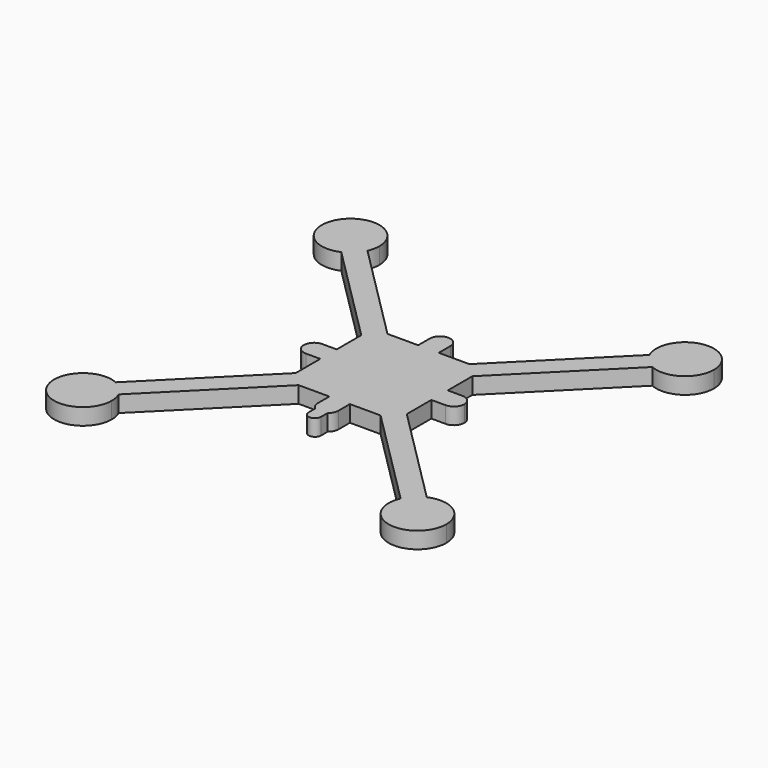
from build123d import *

# Parameters (mm, degrees)
F0_R     = 1.5
F0_R_2   = 1
F1_DEPTH = 4


with BuildPart() as f1:
    # F0 (on Top) → F1 (new body)
    with BuildSketch(Plane.XY):
        with BuildLine():
            ThreePointArc((47.6586399182, -40.6586399182), (44.4672613982, -34.7854463728), (37.803096369, -34.267562463))
            Line((37.803096369, -34.267562463), (42.4264068712, -38.8908729653))
            Line((42.4264068712, -38.8908729653), (40.6586399182, -40.6586399182))
            Line((40.6586399182, -40.6586399182), (38.8908729653, -42.4264068712))
            Line((38.8908729653, -42.4264068712), (34.267562463, -37.803096369))
            ThreePointArc((34.267562463, -37.803096369), (39.1987670105, -47.5047169769), (47.6586399182, -40.6586399182))
        make_face()
        with BuildLine():
            Line((-42.4264068712, 38.8908729653), (-40.6586399182, 40.6586399182))
            Line((-40.6586399182, 40.6586399182), (-38.8908729653, 42.4264068712))
            Line((-38.8908729653, 42.4264068712), (-34.267562463, 37.803096369))
            ThreePointArc((-34.267562463, 37.803096369), (-33.8125628596, 39.1987670105), (-33.6586399182, 40.6586399182))
            ThreePointArc((-33.6586399182, 40.6586399182), (-46.5318334637, 44.4672613982), (-37.803096369, 34.267562463))
            Line((-37.803096369, 34.267562463), (-42.4264068712, 38.8908729653))
        make_face()
        with BuildLine():
            Line((-42.4264068712, -38.8908729653), (-37.803096369, -34.267562463))
            ThreePointArc((-37.803096369, -34.267562463), (-46.5318334637, -44.4672613982), (-33.6586399182, -40.6586399182))
            ThreePointArc((-33.6586399182, -40.6586399182), (-33.8125628596, -39.1987670105), (-34.267562463, -37.803096369))
            Line((-34.267562463, -37.803096369), (-38.8908729653, -42.4264068712))
            Line((-38.8908729653, -42.4264068712), (-40.6586399182, -40.6586399182))
            Line((-40.6586399182, -40.6586399182), (-42.4264068712, -38.8908729653))
        make_face()
        with BuildLine():
            ThreePointArc((47.6586399182, 40.6586399182), (39.1987670105, 47.5047169769), (34.267562463, 37.803096369))
            Line((34.267562463, 37.803096369), (38.8908729653, 42.4264068712))
            Line((38.8908729653, 42.4264068712), (40.6586399182, 40.6586399182))
            Line((40.6586399182, 40.6586399182), (42.4264068712, 38.8908729653))
            Line((42.4264068712, 38.8908729653), (37.803096369, 34.267562463))
            ThreePointArc((37.803096369, 34.267562463), (44.4672613982, 34.7854463728), (47.6586399182, 40.6586399182))
        make_face()
        with BuildLine():
            Line((13.5, -13.5), (9.9644660941, -13.5))
            Line((9.9644660941, -13.5), (34.267562463, -37.803096369))
            ThreePointArc((34.267562463, -37.803096369), (34.8923586209, -36.6900129516), (35.7088924499, -35.7088924499))
            Line((35.7088924499, -35.7088924499), (13.5, -13.5))
        make_face()
        with BuildLine():
            Line((-9.9644660941, -13.5), (-13.5, -13.5))
            Line((-13.5, -13.5), (-35.7088924499, -35.7088924499))
            ThreePointArc((-35.7088924499, -35.7088924499), (-34.8923586209, -36.6900129516), (-34.267562463, -37.803096369))
            Line((-34.267562463, -37.803096369), (-9.9644660941, -13.5))
        make_face()
        with BuildLine():
            Line((37.803096369, -34.267562463), (13.5, -9.9644660941))
            Line((13.5, -9.9644660941), (13.5, -13.5))
            Line((13.5, -13.5), (35.7088924499, -35.7088924499))
            ThreePointArc((35.7088924499, -35.7088924499), (36.6900129516, -34.8923586209), (37.803096369, -34.267562463))
        make_face()
        with BuildLine():
            Line((-13.5, -13.5), (-13.5, -9.9644660941))
            Line((-13.5, -9.9644660941), (-37.803096369, -34.267562463))
            ThreePointArc((-37.803096369, -34.267562463), (-36.6900129516, -34.8923586209), (-35.7088924499, -35.7088924499))
            Line((-35.7088924499, -35.7088924499), (-13.5, -13.5))
        make_face()
        with BuildLine():
            Line((34.267562463, 37.803096369), (9.9644660941, 13.5))
            Line((9.9644660941, 13.5), (13.5, 13.5))
            Line((13.5, 13.5), (35.7088924499, 35.7088924499))
            ThreePointArc((35.7088924499, 35.7088924499), (34.8923586209, 36.6900129516), (34.267562463, 37.803096369))
        make_face()
        with BuildLine():
            Line((-35.7088924499, 35.7088924499), (-13.5, 13.5))
            Line((-13.5, 13.5), (-9.9644660941, 13.5))
            Line((-9.9644660941, 13.5), (-34.267562463, 37.803096369))
            ThreePointArc((-34.267562463, 37.803096369), (-34.8923586209, 36.6900129516), (-35.7088924499, 35.7088924499))
        make_face()
        with BuildLine():
            Line((35.7088924499, 35.7088924499), (13.5, 13.5))
            Line((13.5, 13.5), (13.5, 9.9644660941))
            Line((13.5, 9.9644660941), (37.803096369, 34.267562463))
            ThreePointArc((37.803096369, 34.267562463), (36.6900129516, 34.8923586209), (35.7088924499, 35.7088924499))
        make_face()
        with BuildLine():
            Line((-13.5, 9.9644660941), (-13.5, 13.5))
            Line((-13.5, 13.5), (-35.7088924499, 35.7088924499))
            ThreePointArc((-35.7088924499, 35.7088924499), (-36.6900129516, 34.8923586209), (-37.803096369, 34.267562463))
            Line((-37.803096369, 34.267562463), (-13.5, 9.9644660941))
        make_face()
        Polygon((-2.5, 13.5), (-9.9644660941, 13.5), (-7.2144660941, 10.75), (7.2144660941, 10.75), (9.9644660941, 13.5), (2.5, 13.5), align=None)
        Polygon((13.5, 9.9644660941), (10.75, 7.2144660941), (10.75, -7.2144660941), (13.5, -9.9644660941), (13.5, -2.5), (13.5, 2.5), align=None)
        Polygon((-10.75, 7.2144660941), (-13.5, 9.9644660941), (-13.5, 2.5), (-13.5, -2.5), (-13.5, -9.9644660941), (-10.75, -7.2144660941), align=None)
        Polygon((7.2144660941, -10.75), (-7.2144660941, -10.75), (-9.9644660941, -13.5), (-2.5, -13.5), (2.5, -13.5), (9.9644660941, -13.5), align=None)
        Polygon((-4.2855339059, -0.75), (-9.25, -5.7144660941), (-9.25, -9.25), (-1.767766953, -1.767766953), (-2.7855339059, -0.75), align=None)
        Polygon((-5.7144660941, 9.25), (-9.25, 9.25), (-1.767766953, 1.767766953), (-0.75, 2.7855339059), (-0.75, 4.2855339059), align=None)
        Polygon((2.7855339059, -0.75), (1.767766953, -1.767766953), (9.25, -9.25), (9.25, -5.7144660941), (4.2855339059, -0.75), align=None)
        Polygon((9.25, -9.25), (1.767766953, -1.767766953), (0.75, -2.7855339059), (0.75, -4.2855339059), (5.7144660941, -9.25), align=None)
        Polygon((-1.767766953, -1.767766953), (-9.25, -9.25), (-5.7144660941, -9.25), (-0.75, -4.2855339059), (-0.75, -2.7855339059), align=None)
        Polygon((9.25, 5.7144660941), (9.25, 9.25), (1.767766953, 1.767766953), (2.7855339059, 0.75), (4.2855339059, 0.75), align=None)
        Polygon((9.25, 9.25), (5.7144660941, 9.25), (0.75, 4.2855339059), (0.75, 2.7855339059), (1.767766953, 1.767766953), align=None)
        Polygon((-1.767766953, 1.767766953), (-9.25, 9.25), (-9.25, 5.7144660941), (-4.2855339059, 0.75), (-2.7855339059, 0.75), align=None)
        with BuildLine():
            ThreePointArc((19.5, 0), (18.767766953, 1.767766953), (17, 2.5))
            ThreePointArc((17, 2.5), (14.5, 0), (17, -2.5))
            ThreePointArc((17, -2.5), (18.767766953, -1.767766953), (19.5, 0))
        make_face()
        with Locations((17, 0)):
            Circle(F0_R, mode=Mode.SUBTRACT)
        with BuildLine():
            ThreePointArc((2.5, 17), (0, 19.5), (-2.5, 17))
            ThreePointArc((-2.5, 17), (0, 14.5), (2.5, 17))
        make_face()
        with Locations((0, 17)):
            Circle(F0_R, mode=Mode.SUBTRACT)
        with BuildLine():
            ThreePointArc((-14.5, 0), (-15.232233047, 1.767766953), (-17, 2.5))
            ThreePointArc((-17, 2.5), (-19.5, 0), (-17, -2.5))
            ThreePointArc((-17, -2.5), (-15.232233047, -1.767766953), (-14.5, 0))
        make_face()
        with Locations((-17, 0)):
            Circle(F0_R, mode=Mode.SUBTRACT)
        with BuildLine():
            ThreePointArc((2.5, -17), (0, -14.5), (-2.5, -17))
            ThreePointArc((-2.5, -17), (-2.2360679775, -18.1180339887), (-1.5, -19))
            ThreePointArc((-1.5, -19), (-0.790569421, -19.3717082432), (-1.25e-08, -19.5))
            ThreePointArc((-1.25e-08, -19.5), (0.7905694091, -19.3717082471), (1.5, -19))
            ThreePointArc((1.5, -19), (2.2360679775, -18.1180339887), (2.5, -17))
        make_face()
        with Locations((0, -17)):
            Circle(F0_R, mode=Mode.SUBTRACT)
        Polygon((10.75, -7.2144660941), (10.75, 7.2144660941), (9.25, 5.7144660941), (9.25, 0.75), (9.25, -0.75), (9.25, -5.7144660941), align=None)
        Polygon((-5.7144660941, -9.25), (-7.2144660941, -10.75), (7.2144660941, -10.75), (5.7144660941, -9.25), (0.75, -9.25), (-0.75, -9.25), align=None)
        Polygon((-9.25, 5.7144660941), (-10.75, 7.2144660941), (-10.75, -7.2144660941), (-9.25, -5.7144660941), (-9.25, -0.75), (-9.25, 0.75), align=None)
        Polygon((7.2144660941, 10.75), (-7.2144660941, 10.75), (-5.7144660941, 9.25), (-0.75, 9.25), (0.75, 9.25), (5.7144660941, 9.25), align=None)
        with BuildLine():
            ThreePointArc((35.7088924499, -35.7088924499), (34.8923586209, -36.6900129516), (34.267562463, -37.803096369))
            Line((34.267562463, -37.803096369), (38.8908729653, -42.4264068712))
            Line((38.8908729653, -42.4264068712), (40.6586399182, -40.6586399182))
            Line((40.6586399182, -40.6586399182), (35.7088924499, -35.7088924499))
        make_face()
        with BuildLine():
            ThreePointArc((-34.267562463, -37.803096369), (-34.8923586209, -36.6900129516), (-35.7088924499, -35.7088924499))
            Line((-35.7088924499, -35.7088924499), (-40.6586399182, -40.6586399182))
            Line((-40.6586399182, -40.6586399182), (-38.8908729653, -42.4264068712))
            Line((-38.8908729653, -42.4264068712), (-34.267562463, -37.803096369))
        make_face()
        with BuildLine():
            ThreePointArc((-35.7088924499, -35.7088924499), (-36.6900129516, -34.8923586209), (-37.803096369, -34.267562463))
            Line((-37.803096369, -34.267562463), (-42.4264068712, -38.8908729653))
            Line((-42.4264068712, -38.8908729653), (-40.6586399182, -40.6586399182))
            Line((-40.6586399182, -40.6586399182), (-35.7088924499, -35.7088924499))
        make_face()
        with BuildLine():
            Line((42.4264068712, -38.8908729653), (37.803096369, -34.267562463))
            ThreePointArc((37.803096369, -34.267562463), (36.6900129516, -34.8923586209), (35.7088924499, -35.7088924499))
            Line((35.7088924499, -35.7088924499), (40.6586399182, -40.6586399182))
            Line((40.6586399182, -40.6586399182), (42.4264068712, -38.8908729653))
        make_face()
        with BuildLine():
            Line((38.8908729653, 42.4264068712), (34.267562463, 37.803096369))
            ThreePointArc((34.267562463, 37.803096369), (34.8923586209, 36.6900129516), (35.7088924499, 35.7088924499))
            Line((35.7088924499, 35.7088924499), (40.6586399182, 40.6586399182))
            Line((40.6586399182, 40.6586399182), (38.8908729653, 42.4264068712))
        make_face()
        with BuildLine():
            Line((40.6586399182, 40.6586399182), (35.7088924499, 35.7088924499))
            ThreePointArc((35.7088924499, 35.7088924499), (36.6900129516, 34.8923586209), (37.803096369, 34.267562463))
            Line((37.803096369, 34.267562463), (42.4264068712, 38.8908729653))
            Line((42.4264068712, 38.8908729653), (40.6586399182, 40.6586399182))
        make_face()
        with BuildLine():
            ThreePointArc((-37.803096369, 34.267562463), (-36.6900129516, 34.8923586209), (-35.7088924499, 35.7088924499))
            Line((-35.7088924499, 35.7088924499), (-40.6586399182, 40.6586399182))
            Line((-40.6586399182, 40.6586399182), (-42.4264068712, 38.8908729653))
            Line((-42.4264068712, 38.8908729653), (-37.803096369, 34.267562463))
        make_face()
        with BuildLine():
            Line((-40.6586399182, 40.6586399182), (-35.7088924499, 35.7088924499))
            ThreePointArc((-35.7088924499, 35.7088924499), (-34.8923586209, 36.6900129516), (-34.267562463, 37.803096369))
            Line((-34.267562463, 37.803096369), (-38.8908729653, 42.4264068712))
            Line((-38.8908729653, 42.4264068712), (-40.6586399182, 40.6586399182))
        make_face()
        Polygon((4.2855339059, -0.75), (9.25, -5.7144660941), (9.25, -0.75), align=None)
        Polygon((0.75, -9.25), (5.7144660941, -9.25), (0.75, -4.2855339059), align=None)
        Polygon((-0.75, -4.2855339059), (-5.7144660941, -9.25), (-0.75, -9.25), align=None)
        Polygon((0.75, 4.2855339059), (5.7144660941, 9.25), (0.75, 9.25), align=None)
        Polygon((-0.75, 9.25), (-5.7144660941, 9.25), (-0.75, 4.2855339059), align=None)
        Polygon((-4.2855339059, 0.75), (-9.25, 5.7144660941), (-9.25, 0.75), align=None)
        Polygon((-9.25, -0.75), (-9.25, -5.7144660941), (-4.2855339059, -0.75), align=None)
        Polygon((9.25, 0.75), (9.25, 5.7144660941), (4.2855339059, 0.75), align=None)
        Polygon((-9.9644660941, 13.5), (-13.5, 13.5), (-10.75, 10.75), (-7.2144660941, 10.75), align=None)
        Polygon((13.5, 13.5), (10.75, 10.75), (10.75, 7.2144660941), (13.5, 9.9644660941), align=None)
        Polygon((9.9644660941, 13.5), (7.2144660941, 10.75), (10.75, 10.75), (13.5, 13.5), align=None)
        Polygon((-10.75, 10.75), (-13.5, 13.5), (-13.5, 9.9644660941), (-10.75, 7.2144660941), align=None)
        Polygon((13.5, -9.9644660941), (10.75, -7.2144660941), (10.75, -10.75), (13.5, -13.5), align=None)
        Polygon((-7.2144660941, -10.75), (-10.75, -10.75), (-13.5, -13.5), (-9.9644660941, -13.5), align=None)
        Polygon((10.75, -10.75), (7.2144660941, -10.75), (9.9644660941, -13.5), (13.5, -13.5), align=None)
        Polygon((-10.75, -10.75), (-10.75, -7.2144660941), (-13.5, -9.9644660941), (-13.5, -13.5), align=None)
        Polygon((4.2855339059, 0.75), (3.5355339059, 0), (4.2855339059, -0.75), (9.25, -0.75), (9.25, 0.75), align=None)
        Polygon((-3.5355339059, 0), (-4.2855339059, 0.75), (-9.25, 0.75), (-9.25, -0.75), (-4.2855339059, -0.75), align=None)
        Polygon((0.75, -4.2855339059), (0, -3.5355339059), (-0.75, -4.2855339059), (-0.75, -9.25), (0.75, -9.25), align=None)
        Polygon((-0.75, 9.25), (-0.75, 4.2855339059), (0, 3.5355339059), (0.75, 4.2855339059), (0.75, 9.25), align=None)
        with BuildLine():
            Line((2.5, -13.5), (-2.5, -13.5))
            Line((-2.5, -13.5), (-2.5, -17))
            ThreePointArc((-2.5, -17), (0, -14.5), (2.5, -17))
            Line((2.5, -17), (2.5, -13.5))
        make_face()
        with BuildLine():
            Line((-13.5, -2.5), (-13.5, 2.5))
            Line((-13.5, 2.5), (-17, 2.5))
            ThreePointArc((-17, 2.5), (-15.232233047, 1.767766953), (-14.5, 0))
            ThreePointArc((-14.5, 0), (-15.232233047, -1.767766953), (-17, -2.5))
            Line((-17, -2.5), (-13.5, -2.5))
        make_face()
        with BuildLine():
            Line((-2.5, 17), (-2.5, 13.5))
            Line((-2.5, 13.5), (2.5, 13.5))
            Line((2.5, 13.5), (2.5, 17))
            ThreePointArc((2.5, 17), (0, 14.5), (-2.5, 17))
        make_face()
        with BuildLine():
            Line((17, 2.5), (13.5, 2.5))
            Line((13.5, 2.5), (13.5, -2.5))
            Line((13.5, -2.5), (17, -2.5))
            ThreePointArc((17, -2.5), (14.5, 0), (17, 2.5))
        make_face()
        with BuildLine():
            ThreePointArc((1.5, -21), (1.0606601674, -19.9393398238), (-1.25e-08, -19.5))
            ThreePointArc((-1.25e-08, -19.5), (-1.0606601762, -19.9393398326), (-1.5, -21))
            ThreePointArc((-1.5, -21), (0, -22.5), (1.5, -21))
        make_face()
        with Locations((0, -21)):
            Circle(F0_R_2, mode=Mode.SUBTRACT)
        with Locations((17, 0)):
            Circle(F0_R)
        with Locations((0, 17)):
            Circle(F0_R)
        with Locations((-17, 0)):
            Circle(F0_R)
        with Locations((0, -17)):
            Circle(F0_R)
        Polygon((10.75, -10.75), (10.75, -7.2144660941), (9.25, -5.7144660941), (9.25, -9.25), align=None)
        Polygon((10.75, 7.2144660941), (10.75, 10.75), (9.25, 9.25), (9.25, 5.7144660941), align=None)
        Polygon((5.7144660941, -9.25), (7.2144660941, -10.75), (10.75, -10.75), (9.25, -9.25), align=None)
        Polygon((-9.25, 9.25), (-10.75, 10.75), (-10.75, 7.2144660941), (-9.25, 5.7144660941), align=None)
        Polygon((-9.25, -5.7144660941), (-10.75, -7.2144660941), (-10.75, -10.75), (-9.25, -9.25), align=None)
        Polygon((10.75, 10.75), (7.2144660941, 10.75), (5.7144660941, 9.25), (9.25, 9.25), align=None)
        Polygon((-9.25, -9.25), (-10.75, -10.75), (-7.2144660941, -10.75), (-5.7144660941, -9.25), align=None)
        Polygon((-7.2144660941, 10.75), (-10.75, 10.75), (-9.25, 9.25), (-5.7144660941, 9.25), align=None)
        Polygon((0.75, -0.75), (-0.75, -0.75), (-0.75, -2.7855339059), (0, -3.5355339059), (0.75, -2.7855339059), align=None)
        Polygon((-0.75, -0.75), (-0.75, 0.75), (-2.7855339059, 0.75), (-3.5355339059, 0), (-2.7855339059, -0.75), align=None)
        Polygon((-0.75, 2.7855339059), (-0.75, 0.75), (0.75, 0.75), (0.75, 2.7855339059), (0, 3.5355339059), align=None)
        Polygon((2.7855339059, 0.75), (0.75, 0.75), (0.75, -0.75), (2.7855339059, -0.75), (3.5355339059, 0), align=None)
        with Locations((0, -21)):
            Circle(F0_R_2)
        Polygon((2.7855339059, -0.75), (0.75, -0.75), (1.767766953, -1.767766953), align=None)
        Polygon((-0.75, 2.7855339059), (-1.767766953, 1.767766953), (-0.75, 0.75), align=None)
        Polygon((-0.75, -2.7855339059), (-0.75, -0.75), (-1.767766953, -1.767766953), align=None)
        Polygon((-1.767766953, -1.767766953), (-0.75, -0.75), (-2.7855339059, -0.75), align=None)
        Polygon((1.767766953, -1.767766953), (0.75, -0.75), (0.75, -2.7855339059), align=None)
        Polygon((1.767766953, 1.767766953), (0.75, 0.75), (2.7855339059, 0.75), align=None)
        Polygon((0.75, 2.7855339059), (0.75, 0.75), (1.767766953, 1.767766953), align=None)
        Polygon((-0.75, 0.75), (-1.767766953, 1.767766953), (-2.7855339059, 0.75), align=None)
        with BuildLine():
            ThreePointArc((-1.25e-08, -19.5), (-0.790569421, -19.3717082432), (-1.5, -19))
            Line((-1.5, -19), (-1.5, -21))
            ThreePointArc((-1.5, -21), (-1.0606601762, -19.9393398326), (-1.25e-08, -19.5))
        make_face()
        with BuildLine():
            Line((1.5, -21), (1.5, -19))
            ThreePointArc((1.5, -19), (0.7905694091, -19.3717082471), (-1.25e-08, -19.5))
            ThreePointArc((-1.25e-08, -19.5), (1.0606601674, -19.9393398238), (1.5, -21))
        make_face()
        Polygon((0.75, 4.2855339059), (0, 3.5355339059), (0.75, 2.7855339059), align=None)
        Polygon((0, -3.5355339059), (-0.75, -2.7855339059), (-0.75, -4.2855339059), align=None)
        Polygon((0.75, -4.2855339059), (0.75, -2.7855339059), (0, -3.5355339059), align=None)
        Polygon((-0.75, 4.2855339059), (-0.75, 2.7855339059), (0, 3.5355339059), align=None)
        Polygon((3.5355339059, 0), (2.7855339059, -0.75), (4.2855339059, -0.75), align=None)
        Polygon((4.2855339059, 0.75), (2.7855339059, 0.75), (3.5355339059, 0), align=None)
        Polygon((-3.5355339059, 0), (-2.7855339059, 0.75), (-4.2855339059, 0.75), align=None)
        Polygon((0.75, 0.75), (-0.75, 0.75), (0, 0), align=None)
        Polygon((0.75, -0.75), (0, 0), (-0.75, -0.75), align=None)
        Polygon((-2.7855339059, -0.75), (-3.5355339059, 0), (-4.2855339059, -0.75), align=None)
        Polygon((0, 0), (-0.75, 0.75), (-0.75, -0.75), align=None)
        Polygon((0.75, 0.75), (0, 0), (0.75, -0.75), align=None)
    extrude(amount=F1_DEPTH)


solid = f1.part
